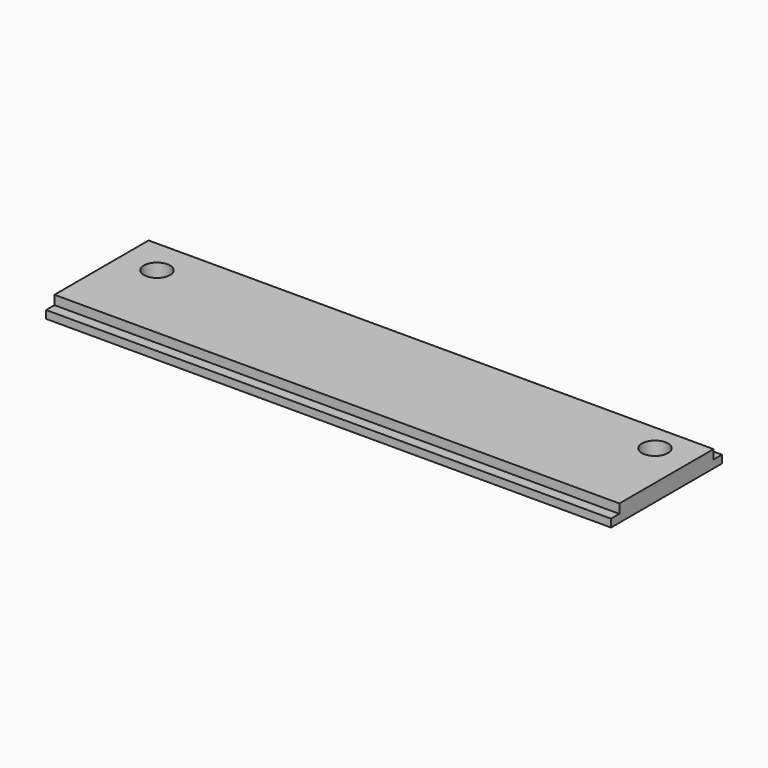
from build123d import *

# Parameters (mm, degrees)
SKETCH_W     = 108
SKETCH_H     = 26.5
PAD_DEPTH    = 1.5
SKETCH001_W  = 108
SKETCH001_H  = 22.5
PAD001_DEPTH = 1.75
SKETCH002_R  = 2.5
POCKET_DEPTH = 3.251


with BuildPart() as part:
    # Sketch → Pad (new body)
    with BuildSketch(Plane.XY):
        with Locations((54, 13.25)):
            Rectangle(SKETCH_W, SKETCH_H)
    extrude(amount=PAD_DEPTH)

    # Sketch001 (on Face6 of Pad) → Pad001 (join)
    with BuildSketch(Plane.XY.offset(1.5)):
        with Locations((54, 13.25)):
            Rectangle(SKETCH001_W, SKETCH001_H)
    extrude(amount=PAD001_DEPTH)

    # Sketch002 (on Face12 of Pad001) → Pocket (cut, through all)
    with BuildSketch(Plane.XY.offset(3.25)):
        with Locations((101, 19.25)):
            Circle(SKETCH002_R)
        with Locations((7, 17.75)):
            Circle(SKETCH002_R)
    extrude(amount=-POCKET_DEPTH, mode=Mode.SUBTRACT)


solid = part.part
